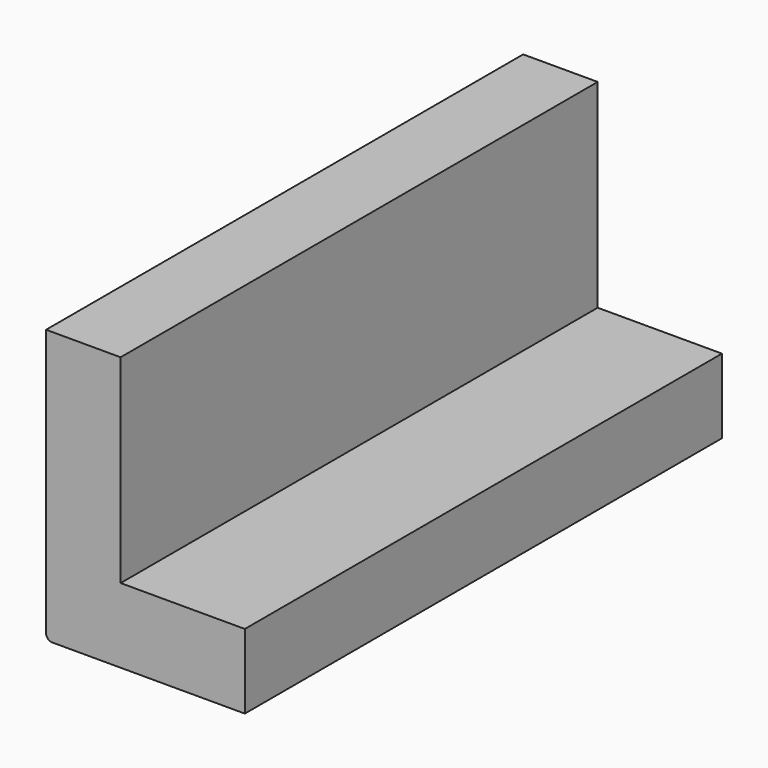
from build123d import *

# Parameters (mm, degrees)
F0_W     = 19.05
F0_H     = 50.8
F1_DEPTH = 152.4


with BuildPart() as f1:
    # F0 (on Front) → F1 (new body)
    with BuildSketch(Plane.XZ):
        with Locations((-15.875, 9.525)):
            Rectangle(F0_W, F0_H)
        with BuildLine():
            ThreePointArc((-25.4, -33.3375), (-24.935032, -34.460032), (-23.8125, -34.925))
            Line((-23.8125, -34.925), (25.4, -34.925))
            Line((25.4, -34.925), (25.4, -15.875))
            Line((25.4, -15.875), (-6.35, -15.875))
            Line((-6.35, -15.875), (-25.4, -15.875))
            Line((-25.4, -15.875), (-25.4, -33.3375))
        make_face()
    extrude(amount=F1_DEPTH)


solid = f1.part
